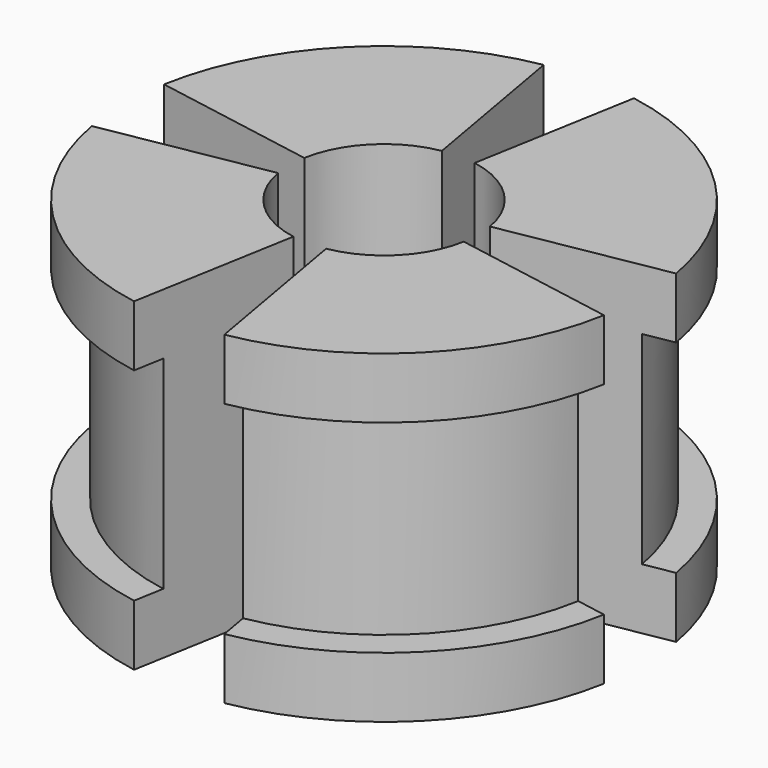
from build123d import *

# Parameters (mm, degrees)
F1_ANGLE_BACK = 35
F1_ANGLE      = 70
F2_COUNT      = 4
F3_ANGLE      = -45


with BuildPart() as f1:
    # F0 (on Front) → F1 (revolve)
    with BuildSketch(Plane.XZ, mode=Mode.PRIVATE) as f1_sk:
        Polygon((-4.65, -16), (-4.65, 0), (-12.825, 0), (-12.825, -3), (-11.325, -3), (-11.325, -13), (-12.825, -13), (-12.825, -16), align=None)
    revolve(f1_sk.sketch.rotate(Axis((0, 0, -8.945657406), (0, 0, -1)), -F1_ANGLE_BACK), axis=Axis((0, 0, -8.945657406), (0, 0, -1)), revolution_arc=F1_ANGLE)


with BuildPart() as f2_1:
    # F2: instance of F1
    add(f1.part.rotate(Axis((0, 0, -16), (0, 0, 1)), 1 * 360 / F2_COUNT))


with BuildPart() as f2_2:
    # F2: instance of F1
    add(f1.part.rotate(Axis((0, 0, -16), (0, 0, 1)), 2 * 360 / F2_COUNT))


with BuildPart() as f2_3:
    # F2: instance of F1
    add(f1.part.rotate(Axis((0, 0, -16), (0, 0, 1)), 3 * 360 / F2_COUNT))


with BuildPart() as f1_1:
    # F3: moved
    add(f1.part.rotate(Axis((0, 0, -16), (0, 0, 1)), F3_ANGLE))


with BuildPart() as f2_2_1:
    # F3: moved
    add(f2_2.part.rotate(Axis((0, 0, -16), (0, 0, 1)), F3_ANGLE))


with BuildPart() as f2_1_1:
    # F3: moved
    add(f2_1.part.rotate(Axis((0, 0, -16), (0, 0, 1)), F3_ANGLE))


with BuildPart() as f2_3_1:
    # F3: moved
    add(f2_3.part.rotate(Axis((0, 0, -16), (0, 0, 1)), F3_ANGLE))


solid = Compound([f1_1.part, f2_2_1.part, f2_1_1.part, f2_3_1.part])
